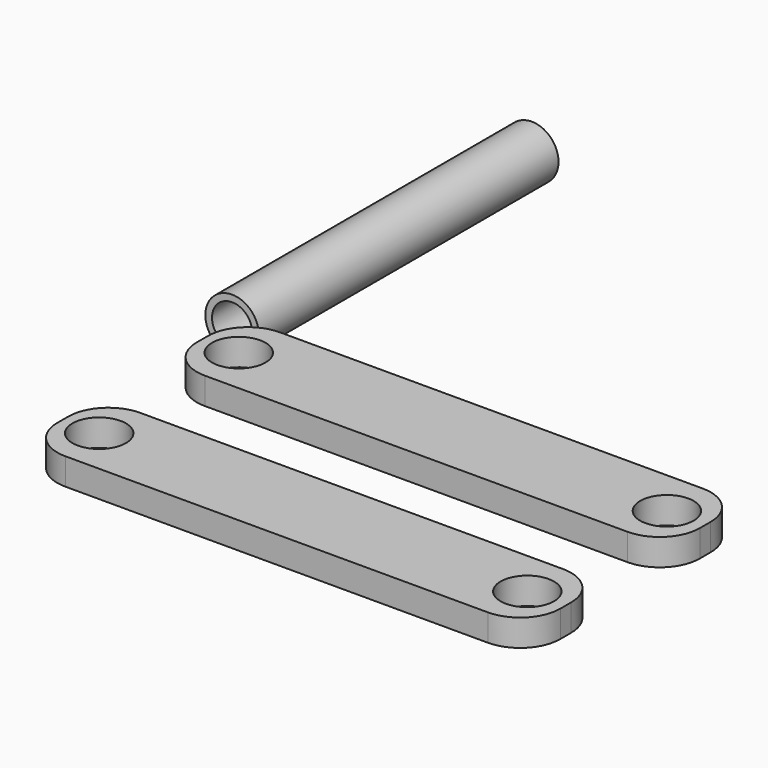
from build123d import *

# Parameters (mm, degrees)
F0_R     = 12.7
F1_DEPTH = 12.7
F2_W     = 3.175
F2_H     = 177.8


with BuildPart() as f1:
    # F0 (on Top) → F1 (new body)
    with BuildSketch(Plane.XY):
        with BuildLine():
            ThreePointArc((-119.369373, -3.224673), (-113.789757, -16.695057), (-100.319373, -22.274673))
            Line((-100.319373, -22.274673), (100.319373, -22.274673))
            ThreePointArc((100.319373, -22.274673), (113.789757, -16.695057), (119.369373, -3.224673))
            Line((119.369373, -3.224673), (119.369373, 3.224673))
            ThreePointArc((119.369373, 3.224673), (113.789757, 16.695057), (100.319373, 22.274673))
            Line((100.319373, 22.274673), (-100.319373, 22.274673))
            ThreePointArc((-100.319373, 22.274673), (-113.789757, 16.695057), (-119.369373, 3.224673))
            Line((-119.369373, 3.224673), (-119.369373, -3.224673))
        make_face()
        with Locations((-102.053202, 0)):
            Circle(F0_R, mode=Mode.SUBTRACT)
        with Locations((101.146798, 0)):
            Circle(F0_R, mode=Mode.SUBTRACT)
        with BuildLine():
            Line((119.369373, -86.04076), (119.369373, -79.591414))
            ThreePointArc((119.369373, -79.591414), (113.789757, -66.12103), (100.319373, -60.541414))
            Line((100.319373, -60.541414), (-100.319373, -60.541414))
            ThreePointArc((-100.319373, -60.541414), (-113.789757, -66.12103), (-119.369373, -79.591414))
            Line((-119.369373, -79.591414), (-119.369373, -86.04076))
            ThreePointArc((-119.369373, -86.04076), (-113.789757, -99.511144), (-100.319373, -105.09076))
            Line((-100.319373, -105.09076), (100.319373, -105.09076))
            ThreePointArc((100.319373, -105.09076), (113.789757, -99.511144), (119.369373, -86.04076))
        make_face()
        with Locations((-102.053202, -82.816087)):
            Circle(F0_R, mode=Mode.SUBTRACT)
        with Locations((101.146798, -82.816087)):
            Circle(F0_R, mode=Mode.SUBTRACT)
    extrude(amount=F1_DEPTH)


with BuildPart() as f3:
    # F2 (on Top) → F3 (revolve)
    with BuildSketch(Plane.XY):
        with Locations((-122.008439, 123.756327)):
            Rectangle(F2_W, F2_H)
    revolve(axis=Axis((-133.120939, 123.756327, 0), (0, -1, 0)))


solid = Compound([f1.part, f3.part])
